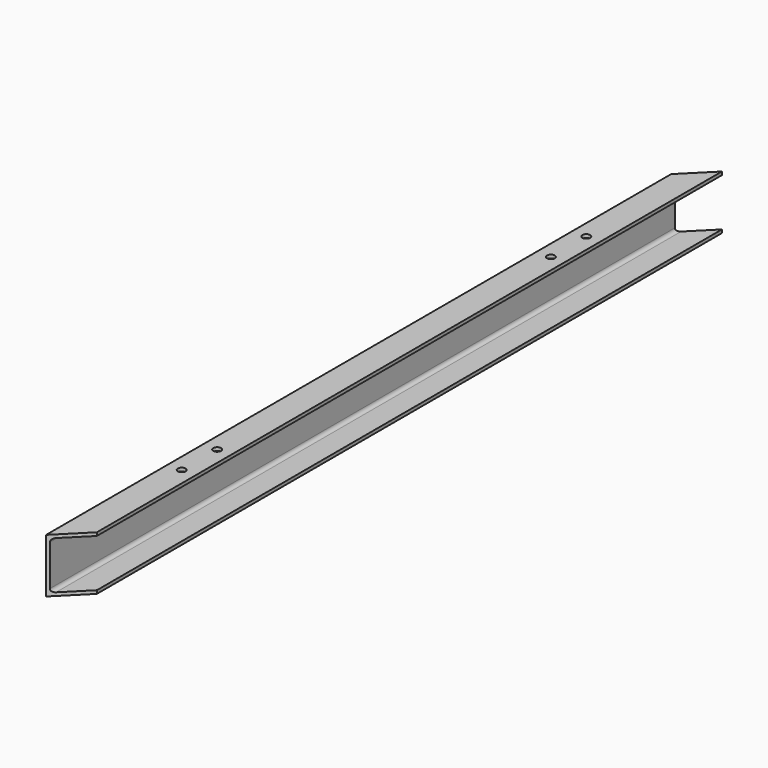
from build123d import *

# Parameters (mm, degrees)
F1_DEPTH = 1865
F3_DEPTH = 125.001
F4_R     = 9
F5_DEPTH = 7.5


with BuildPart() as f1:
    # F0 (on Front) → F1 (new body)
    with BuildSketch(Plane.XZ):
        with BuildLine():
            Line((-25.16784, 62.5), (-25.16784, -62.5))
            Line((-25.16784, -62.5), (39.83216, -62.5))
            Line((39.83216, -62.5), (39.83216, -55))
            Line((39.83216, -55), (-12.46784, -55))
            ThreePointArc((-12.46784, -55), (-18.124695, -52.656854), (-20.46784, -47))
            Line((-20.46784, -47), (-20.46784, 47))
            ThreePointArc((-20.46784, 47), (-18.124695, 52.656854), (-12.46784, 55))
            Line((-12.46784, 55), (39.83216, 55))
            Line((39.83216, 55), (39.83216, 62.5))
            Line((39.83216, 62.5), (-25.16784, 62.5))
        make_face()
    extrude(amount=F1_DEPTH)

    # F2 (on face) → F3 (cut, through all)
    with BuildSketch(Plane.XY.offset(62.5)):
        Polygon((39.83216, -1800), (-25.16784, -1865), (39.83216, -1865), align=None)
        Polygon((39.83216, 0), (-25.16784, 0), (-25.16784, -65), align=None)
    extrude(amount=-F3_DEPTH, mode=Mode.SUBTRACT)

    # F4 (on face) → F5 (cut, through all)
    with BuildSketch(Plane.XY.offset(62.5)):
        with Locations((7.33216, -350)):
            Circle(F4_R)
        with Locations((7.33216, -452)):
            Circle(F4_R)
        with Locations((7.33216, -1515)):
            Circle(F4_R)
        with Locations((7.33216, -1413)):
            Circle(F4_R)
    extrude(amount=-F5_DEPTH, mode=Mode.SUBTRACT)


solid = f1.part
